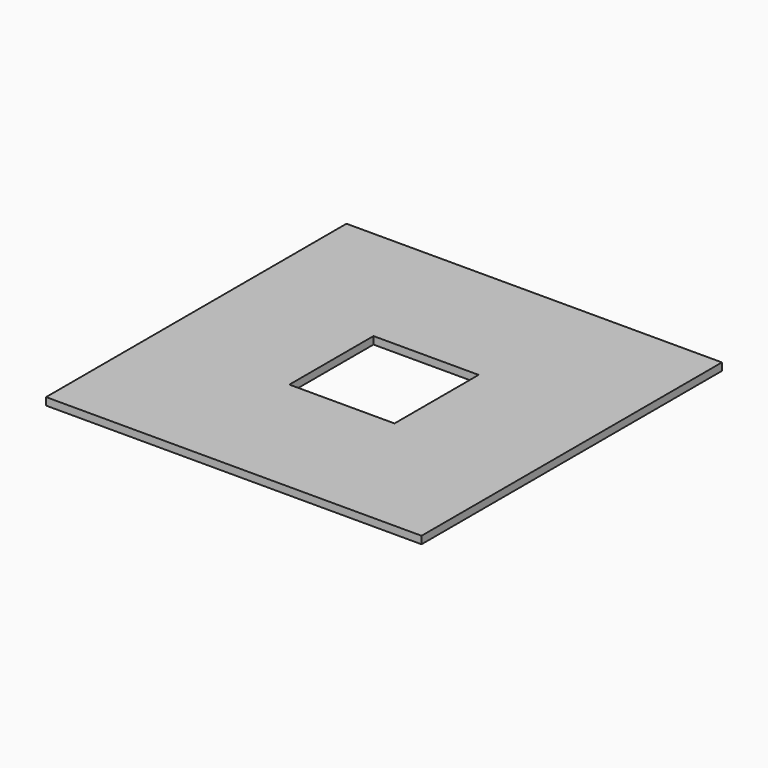
from build123d import *

# Parameters (mm, degrees)
SKETCH_W   = 50
SKETCH_H   = 50
SKETCH_W_2 = 14
SKETCH_H_2 = 14
PAD_DEPTH  = 1


with BuildPart() as part:
    # Sketch → Pad (new body)
    with BuildSketch(Plane.XY):
        Rectangle(SKETCH_W, SKETCH_H)
        Rectangle(SKETCH_W_2, SKETCH_H_2, mode=Mode.SUBTRACT)
    extrude(amount=PAD_DEPTH)


solid = part.part
